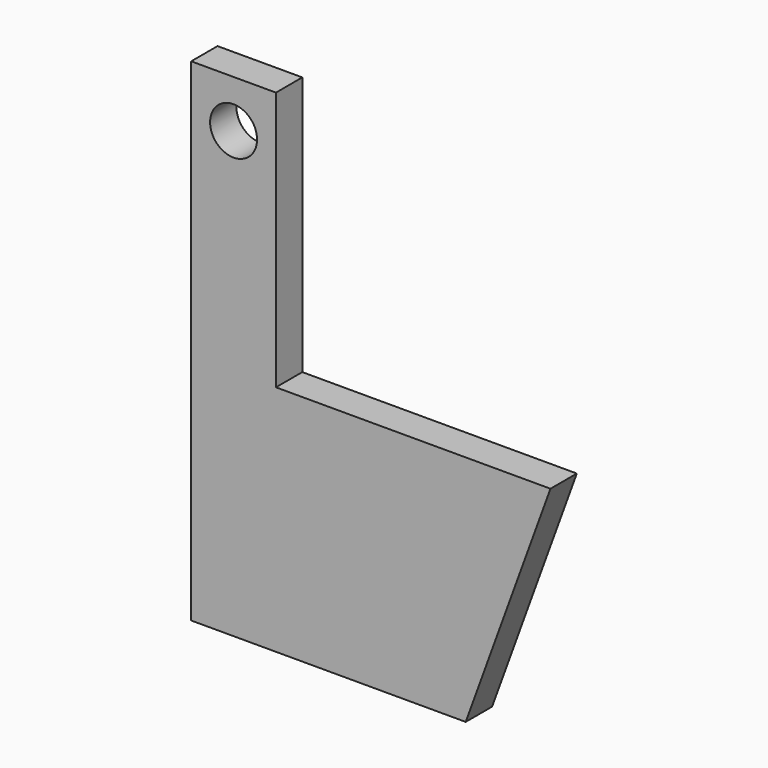
from build123d import *

# Parameters (mm, degrees)
F1_DEPTH = 76.2
F2_R     = 54.370014
F3_DEPTH = 76.2


with BuildPart() as f1:
    # F0 (on Front) → F1 (new body)
    with BuildSketch(Plane.XZ):
        Polygon((0, 600.150804), (-196.059972, 600.150804), (-196.059972, -538.670345), (438.940028, -538.670345), (635, 0), (0, 0), align=None)
    extrude(amount=F1_DEPTH)

    # F2 (on face) → F3 (cut)
    with BuildSketch(Plane.XZ.offset(76.2)):
        with Locations((-98.029986, 490.312219)):
            Circle(F2_R)
    extrude(amount=-F3_DEPTH, mode=Mode.SUBTRACT)


solid = f1.part
